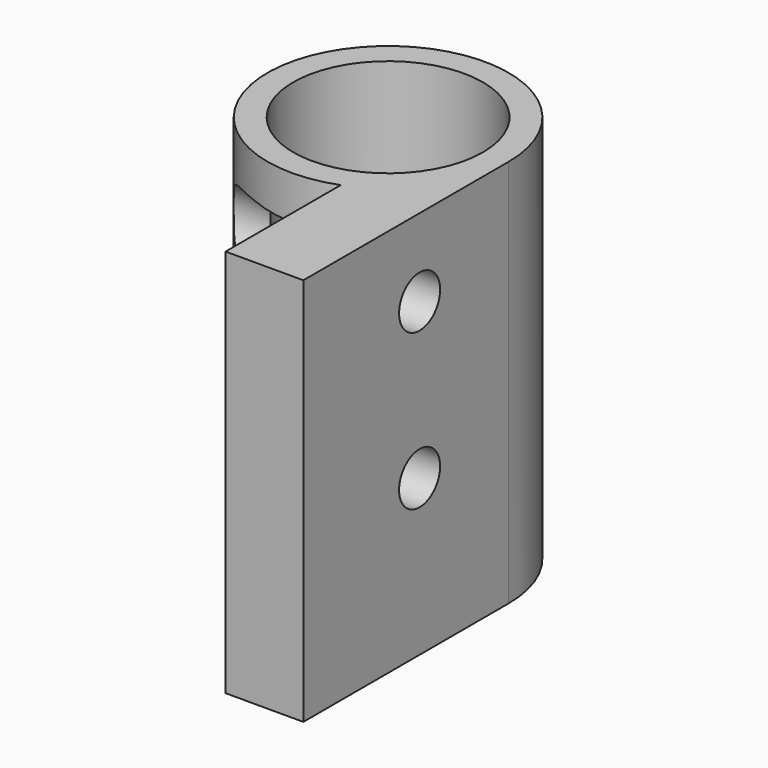
from build123d import *

# Parameters (mm, degrees)
F0_R     = 6.1
F1_DEPTH = 25
F2_R     = 2.3
F3_DEPTH = 25
F4_DEPTH = 2
F5_D     = 3.3


with BuildPart() as f1:
    # F0 (on Top) → F1 (new body)
    with BuildSketch(Plane.XY):
        with BuildLine():
            ThreePointArc((2.75, -7.2456883731), (6.3786754111, -4.4017042154), (7.75, 0))
            ThreePointArc((7.75, 0), (-6.3786754111, 4.4017042154), (2.75, -7.2456883731))
        make_face()
        Circle(F0_R, mode=Mode.SUBTRACT)
        with BuildLine():
            Line((7.75, -16.5), (7.75, 0))
            ThreePointArc((7.75, 0), (6.3786754111, -4.4017042154), (2.75, -7.2456883731))
            Line((2.75, -7.2456883731), (2.75, -16.5))
            Line((2.75, -16.5), (7.75, -16.5))
        make_face()
    extrude(amount=F1_DEPTH)

    # F2 (on face) → F3 (cut)
    with BuildSketch(Plane(origin=(2.75, 0, 0), x_dir=(0, -1, 0), z_dir=(-1, 0, 0))):
        with BuildLine():
            ThreePointArc((7.2456883731, 17.7017590841), (8.8135894847, 18.4057690674), (9.4557512134, 20))
            ThreePointArc((9.4557512134, 20), (8.8135894847, 21.5942309326), (7.2456883731, 22.2982409159))
            Line((7.2456883731, 22.2982409159), (7.2456883731, 17.7017590841))
        make_face()
        with Locations((7.1557512134, 20)):
            Circle(F2_R)
        with Locations((7.1557512134, 10)):
            Circle(F2_R)
    extrude(amount=F3_DEPTH, mode=Mode.SUBTRACT)

    # F2 (on face) → F4 (cut)
    with BuildSketch(Plane(origin=(2.75, 0, 0), x_dir=(0, -1, 0), z_dir=(-1, 0, 0))):
        with Locations((7.1557512134, 20)):
            Circle(F2_R)
        with Locations((7.1557512134, 10)):
            Circle(F2_R)
    extrude(amount=-F4_DEPTH, mode=Mode.SUBTRACT)

    # F5 (through all)
    with Locations(Plane(origin=(2.75, 0, 0), x_dir=(0, -1, 0), z_dir=(-1, 0, 0))):
        with Locations((7.1557512134, 10), (7.1557512134, 20)):
            Hole(F5_D / 2)


solid = f1.part
